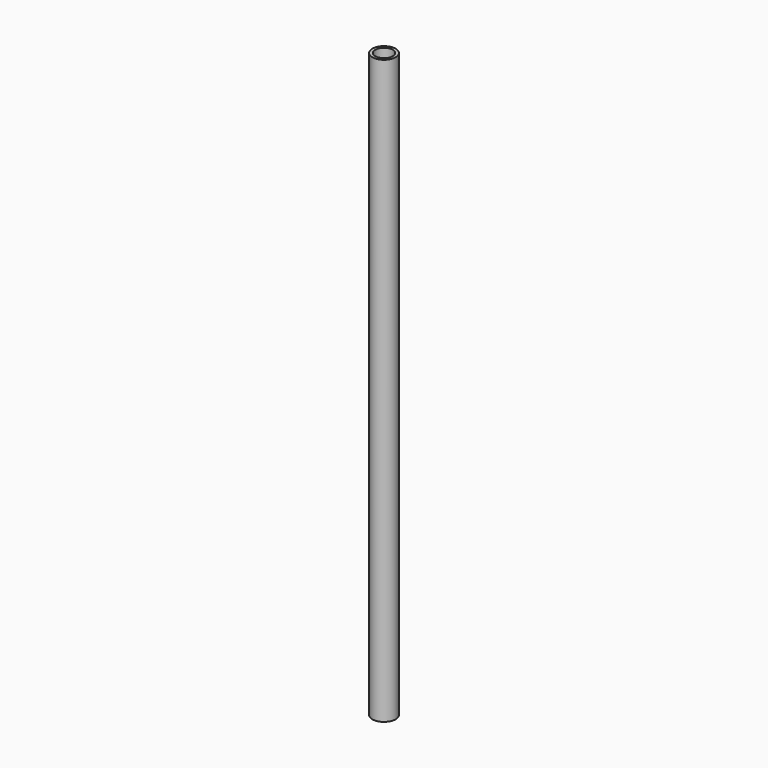
from build123d import *

# Parameters (mm, degrees)
CYLINDER017_R     = 3
CYLINDER017_DEPTH = 200
CYLINDER016_R     = 4
CYLINDER016_DEPTH = 200


with BuildPart() as cilindro017:
    # Cylinder017 → Cylinder017 (new body)
    with BuildSketch(Plane(origin=(0, -24, 9), x_dir=(1, 0, 0), z_dir=(0, 0, 1))):
        Circle(CYLINDER017_R)
    extrude(amount=CYLINDER017_DEPTH)


with BuildPart() as obj1:
    # Cylinder016 → Cylinder016 (new body)
    with BuildSketch(Plane(origin=(0, -24, 9), x_dir=(1, 0, 0), z_dir=(0, 0, 1))):
        Circle(CYLINDER016_R)
    extrude(amount=CYLINDER016_DEPTH)

    # Cut024: cut Cilindro017
    add(cilindro017.part, mode=Mode.SUBTRACT)


with BuildPart() as obj1_1:
    # Cut024 placement: moved
    add(obj1.part.moved(Location((57, -16, -38))))


solid = obj1_1.part
